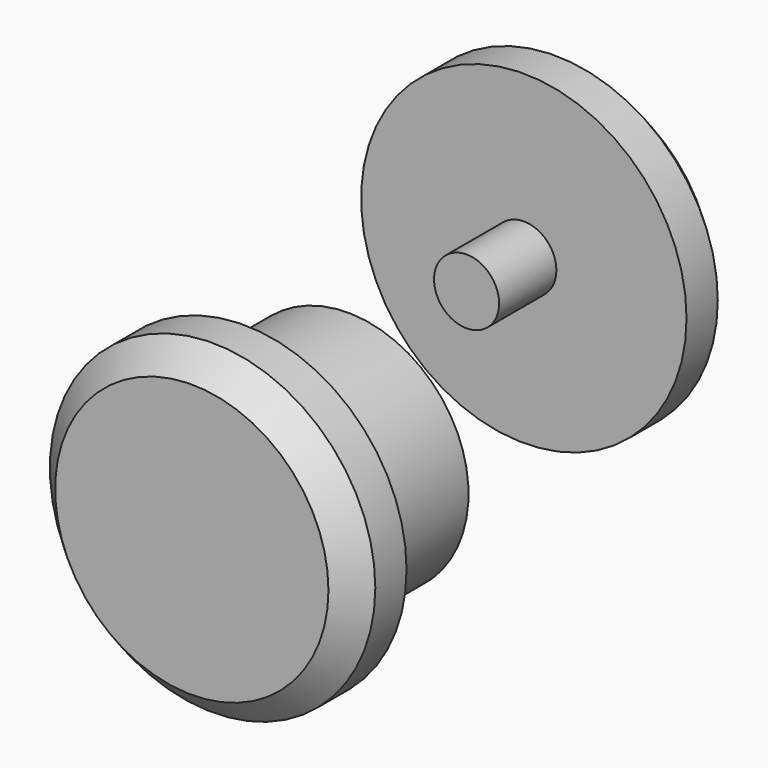
from build123d import *

# Parameters (mm, degrees)
F0_R       = 31.75
F1_DEPTH   = 12.7
F2_R       = 23.525721
F3_DEPTH   = 25.4
F4_R       = 6.35
F5_DEPTH   = 12.7
F6_R       = 31.75
F7_DEPTH   = 12.7
F8_R       = 6.35
F9_DEPTH   = 13.97
F10_SIZE   = 5.08
F10_2_SIZE = 5.08


with BuildPart() as f1:
    # F0 (on Front) → F1 (new body)
    with BuildSketch(Plane.XZ):
        Circle(F0_R)
    extrude(amount=F1_DEPTH)

    # F2 (on face) → F3 (join)
    with BuildSketch(Plane(origin=(0, 0, 0), x_dir=(-1, 0, 0), z_dir=(0, 1, 0))):
        Circle(F2_R)
    extrude(amount=F3_DEPTH)

    # F4 (on face) → F5 (cut)
    with BuildSketch(Plane(origin=(0, 25.4, 0), x_dir=(-1, 0, 0), z_dir=(0, 1, 0))):
        Circle(F4_R)
    extrude(amount=-F5_DEPTH, mode=Mode.SUBTRACT)

    # F10
    f10_edges = [f1.edges().sort_by_distance(p)[0] for p in [
        (-31.75, -12.7, 0),
    ]]
    chamfer(f10_edges, length=F10_SIZE)


with BuildPart() as f7:
    # F6 (on Front) → F7 (new body)
    with BuildSketch(Plane.XZ):
        with Locations((64.800724, 69.409594)):
            Circle(F6_R)
    extrude(amount=F7_DEPTH)

    # F8 (on face) → F9 (join)
    with BuildSketch(Plane.XZ.offset(12.7)):
        with Locations((64.800724, 69.409594)):
            Circle(F8_R)
    extrude(amount=F9_DEPTH)

    # F10#2
    f10_2_edges = [f7.edges().sort_by_distance(p)[0] for p in [
        (33.050724, 0, 69.409594),
    ]]
    chamfer(f10_2_edges, length=F10_2_SIZE)


solid = Compound([f1.part, f7.part])
